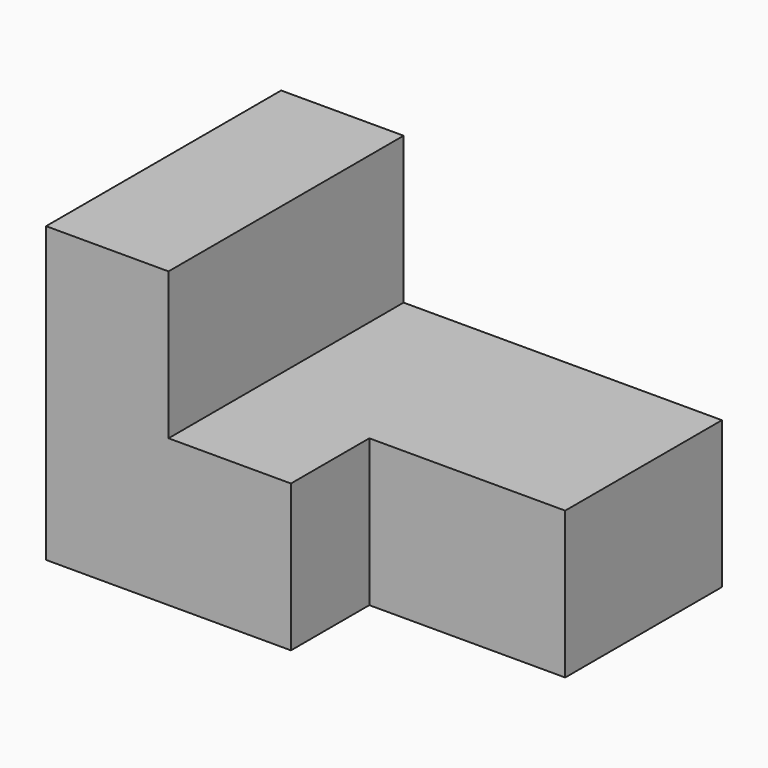
from build123d import *

# Parameters (mm, degrees)
F1_DEPTH = 76.2
F2_W     = 101.6
F2_H     = 50.8
F3_DEPTH = 76.201


with BuildPart() as f1:
    # F0 (on Front) → F1 (new body, symmetric)
    with BuildSketch(Plane.XZ):
        Polygon((-50.8, 76.2), (-114.3, 76.2), (-114.3, -76.2), (114.3, -76.2), (114.3, 0), (-50.8, 0), align=None)
    extrude(amount=F1_DEPTH, both=True)

    # F2 (on face) → F3 (cut, through all)
    with BuildSketch(Plane.XY):
        with Locations((63.5, -50.8)):
            Rectangle(F2_W, F2_H)
    extrude(amount=-F3_DEPTH, mode=Mode.SUBTRACT)


solid = f1.part
